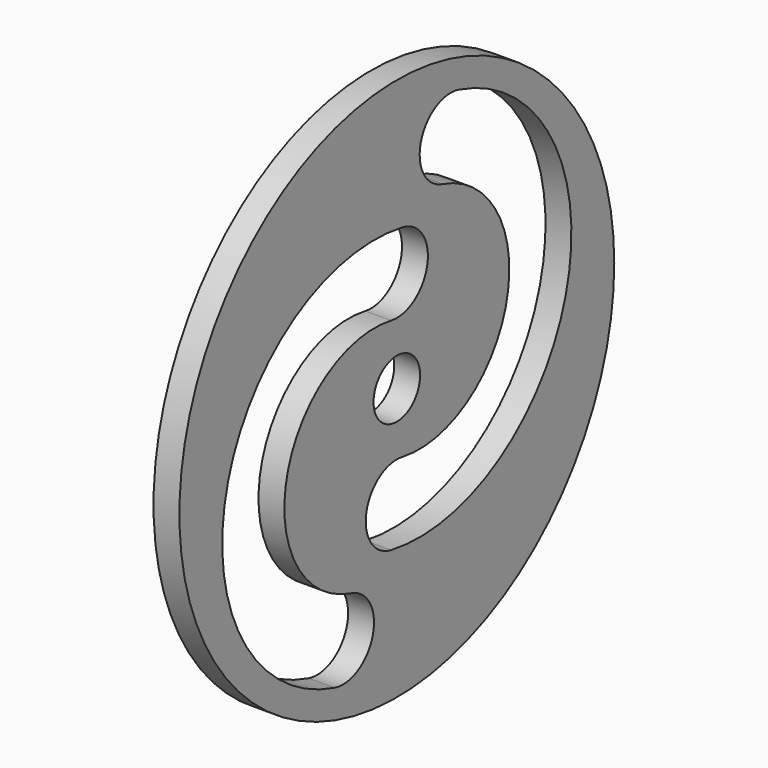
from build123d import *

# Parameters (mm, degrees)
F0_R     = 21
F0_R_2   = 2.25
F1_DEPTH = 2


with BuildPart() as f1:
    # F0 (on Right) → F1 (new body)
    with BuildSketch(Plane.YZ):
        Circle(F0_R)
        with BuildLine():
            ThreePointArc((-4.423462, -12.115904), (-2.310416, -15.794904), (-5.989415, -17.90795))
            ThreePointArc((-5.989415, -17.90795), (-16.493635, -0.432608), (0.55056, 10.757637))
            ThreePointArc((0.55056, 10.757637), (2.949048, 7.258029), (-0.55056, 4.859542))
            ThreePointArc((-0.55056, 4.859542), (-10.643946, -1.767199), (-4.423462, -12.115904))
        make_face(mode=Mode.SUBTRACT)
        Circle(F0_R_2, mode=Mode.SUBTRACT)
        with BuildLine():
            ThreePointArc((-0.55056, -10.757637), (-2.949048, -7.258029), (0.55056, -4.859542))
            ThreePointArc((0.55056, -4.859542), (10.643946, 1.767199), (4.423462, 12.115904))
            ThreePointArc((4.423462, 12.115904), (2.310416, 15.794904), (5.989415, 17.90795))
            ThreePointArc((5.989415, 17.90795), (16.493635, 0.432608), (-0.55056, -10.757637))
        make_face(mode=Mode.SUBTRACT)
    extrude(amount=F1_DEPTH)


solid = f1.part
